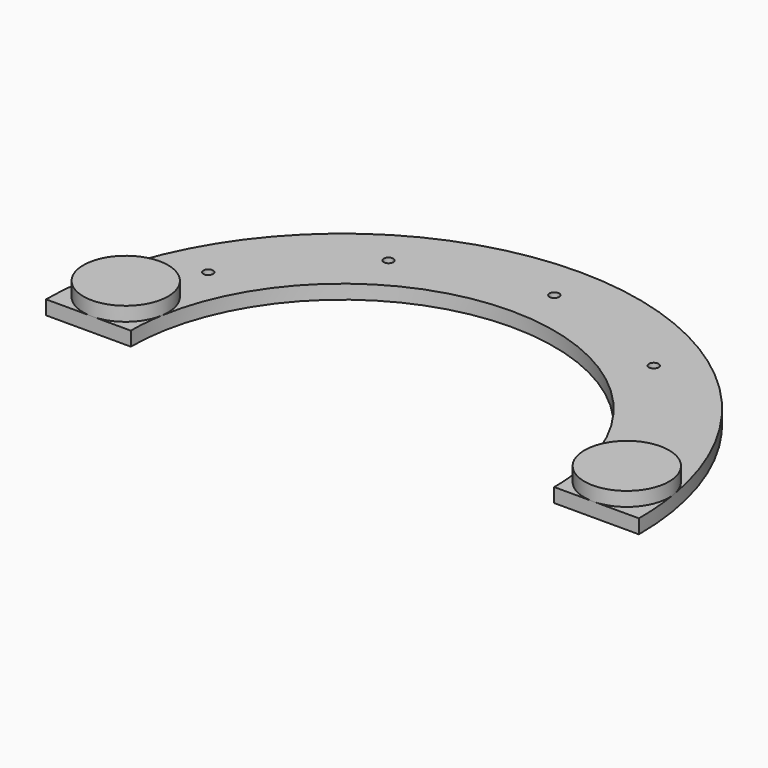
from build123d import *

# Parameters (mm, degrees)
F1_DEPTH       = 25.4
F2_R           = 76.2
F3_DEPTH       = 25.4
F5_D           = 17.4752
F5_CSINK_D     = 30.1752
F5_CSINK_ANGLE = 82


with BuildPart() as f1:
    # F0 (on Top) → F1 (new body)
    with BuildSketch(Plane.XY):
        with BuildLine():
            ThreePointArc((533.4, 0), (0, 533.4), (-533.4, 0))
            Line((-533.4, 0), (-381, 0))
            ThreePointArc((-381, 0), (0, 381), (381, 0))
            Line((381, 0), (533.4, 0))
        make_face()
    extrude(amount=F1_DEPTH)

    # F2 (on face) → F3 (join)
    with BuildSketch(Plane.XY.offset(25.4)):
        with Locations((-450.85, 75.9349557187)):
            Circle(F2_R)
        with Locations((450.85, 75.9349557187)):
            Circle(F2_R)
    extrude(amount=F3_DEPTH)

    # F5 (through all)
    with Locations(Plane(origin=(0, 0, 0), x_dir=(1, 0, 0), z_dir=(0, 0, -1))):
        with Locations((-407.0116534822, -206.7221845356), (-231.690010169, -393.0945802086), (16.3125792691, -456.0792141678), (259.3174608987, -375.9482214927), (421.2113483751, -177.8)):
            CounterSinkHole(F5_D / 2, F5_CSINK_D / 2, counter_sink_angle=F5_CSINK_ANGLE)


solid = f1.part
